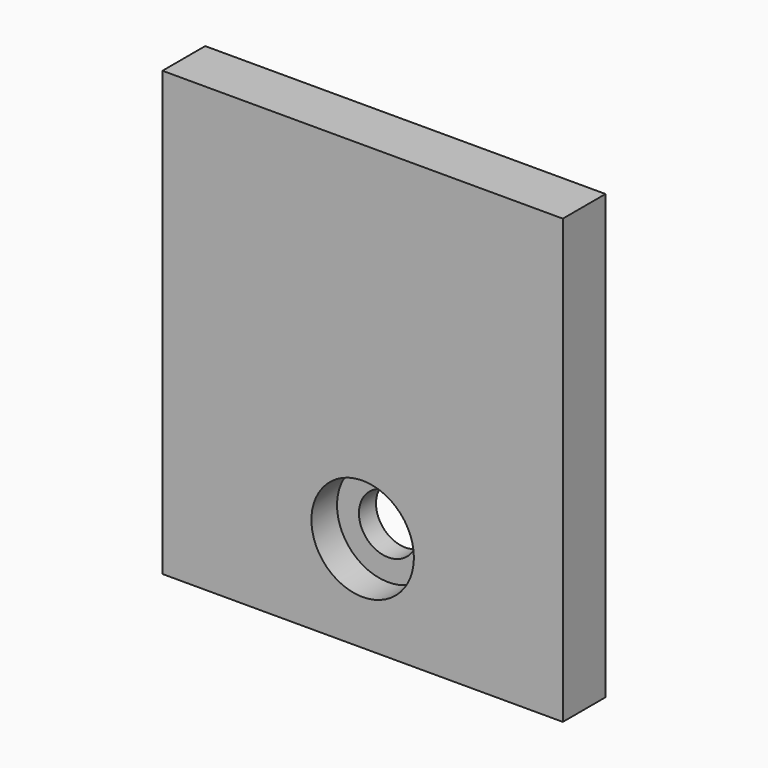
from build123d import *

# Parameters (mm, degrees)
SKETCH001_AS_DRAWN_R                 = 9.6
EXTRUDE001_DEPTH                     = 6
EXTRUDE001_ONTO_SKETCH001_ROLL_ANGLE = 90
SKETCH_AS_DRAWN_W                    = 75
SKETCH_AS_DRAWN_H                    = 83
SKETCH_AS_DRAWN_R                    = 5.5
EXTRUDE_DEPTH                        = 10
EXTRUDE_ONTO_SKETCH_ROLL_ANGLE       = 90


with BuildPart() as obj1:
    # Sketch001 as drawn → Extrude001 (new)
    with BuildSketch(Plane.XY):
        Circle(SKETCH001_AS_DRAWN_R)
    extrude(amount=-EXTRUDE001_DEPTH)


with BuildPart() as obj1_1:
    # Extrude001 onto Sketch001 roll: moved
    add(obj1.part.rotate(Axis((0, 0, 0), (1, 0, 0)), EXTRUDE001_ONTO_SKETCH001_ROLL_ANGLE))


with BuildPart() as obj1_2:
    # Extrude001 onto Sketch001 placement: moved
    add(obj1_1.part)


with BuildPart() as obj2:
    # Sketch as drawn → Extrude (new)
    with BuildSketch(Plane.XY):
        with Locations((0, 23.5)):
            Rectangle(SKETCH_AS_DRAWN_W, SKETCH_AS_DRAWN_H)
        Circle(SKETCH_AS_DRAWN_R, mode=Mode.SUBTRACT)
    extrude(amount=-EXTRUDE_DEPTH)


with BuildPart() as obj2_1:
    # Extrude onto Sketch roll: moved
    add(obj2.part.rotate(Axis((0, 0, 0), (1, 0, 0)), EXTRUDE_ONTO_SKETCH_ROLL_ANGLE))


with BuildPart() as obj2_2:
    # Extrude onto Sketch placement: moved
    add(obj2_1.part)

    # Cut: cut obj1
    add(obj1_2.part, mode=Mode.SUBTRACT)


solid = obj2_2.part
